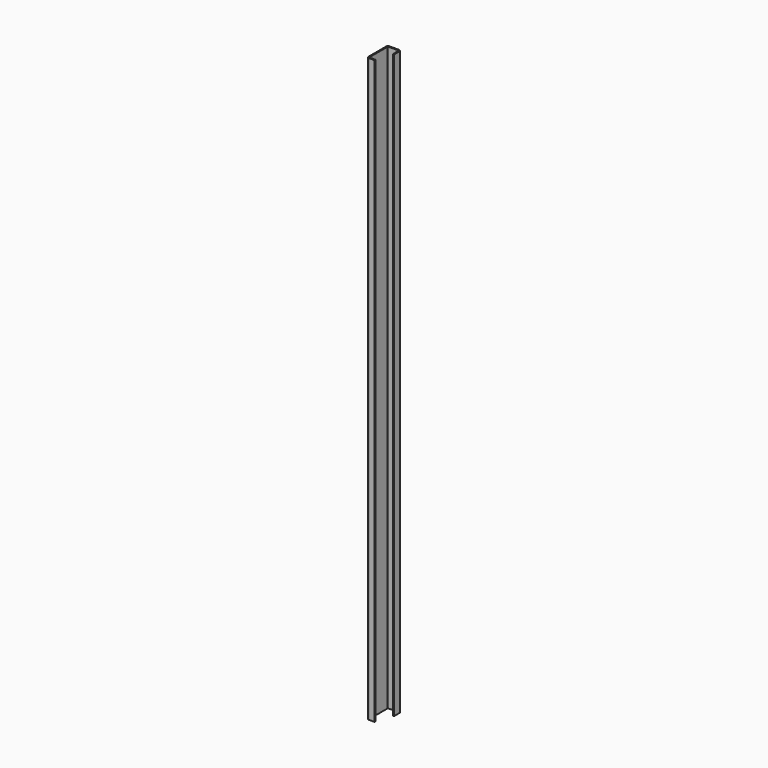
from build123d import *

# Parameters (mm, degrees)
F1_DEPTH = 373.5


with BuildPart() as f1:
    # F0 (on Top) → F1 (new body, symmetric)
    with BuildSketch(Plane.XY):
        with BuildLine():
            Line((2.5, -16.5), (9.5, -16.5))
            Line((9.5, -16.5), (9.5, -15))
            Line((9.5, -15), (2.5, -15))
            ThreePointArc((2.5, -15), (1.792893, -14.707107), (1.5, -14))
            Line((1.5, -14), (1.5, 14))
            ThreePointArc((1.5, 14), (1.792893, 14.707107), (2.5, 15))
            Line((2.5, 15), (14.5, 15))
            ThreePointArc((14.5, 15), (15.207107, 14.707107), (15.5, 14))
            Line((15.5, 14), (15.5, 5.5))
            Line((15.5, 5.5), (17, 5.5))
            Line((17, 5.5), (17, 14))
            ThreePointArc((17, 14), (16.267767, 15.767767), (14.5, 16.5))
            Line((14.5, 16.5), (2.5, 16.5))
            ThreePointArc((2.5, 16.5), (0.732233, 15.767767), (0, 14))
            Line((0, 14), (0, -14))
            ThreePointArc((0, -14), (0.732233, -15.767767), (2.5, -16.5))
        make_face()
    extrude(amount=F1_DEPTH, both=True)


solid = f1.part
